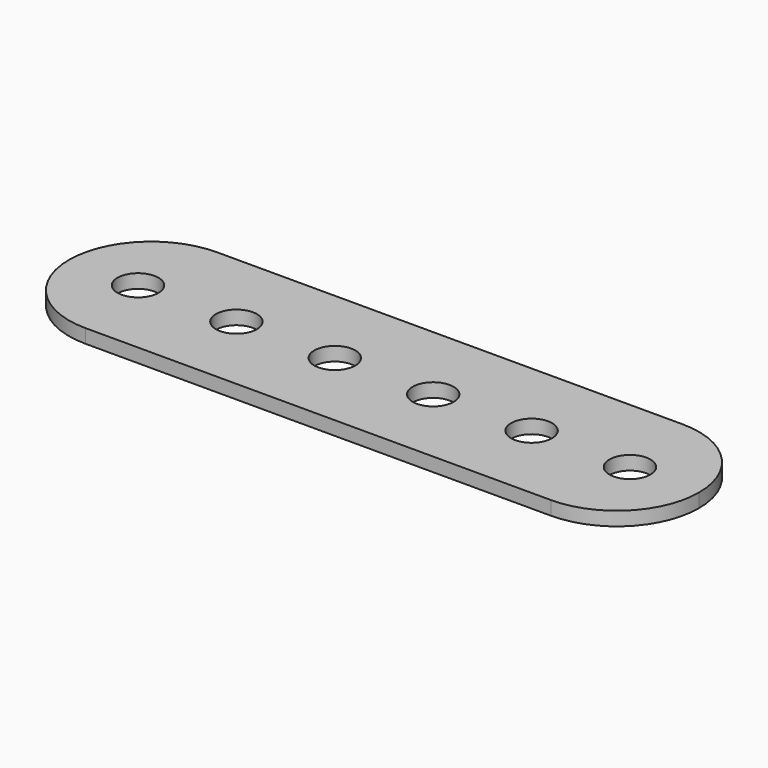
from build123d import *

# Parameters (mm, degrees)
F0_R     = 2.3749
F1_DEPTH = 1.6002


with BuildPart() as f1:
    # F0 (on Top) → F1 (new body)
    with BuildSketch(Plane.XY):
        with BuildLine():
            Line((26.9875, 9.525), (0, 9.525))
            Line((0, 9.525), (-26.9875, 9.525))
            ThreePointArc((-26.9875, 9.525), (-33.722692, 6.735192), (-36.5125, 0))
            ThreePointArc((-36.5125, 0), (-33.722692, -6.735192), (-26.9875, -9.525))
            Line((-26.9875, -9.525), (0, -9.525))
            Line((0, -9.525), (26.9875, -9.525))
            ThreePointArc((26.9875, -9.525), (33.722692, -6.735192), (36.5125, 0))
            ThreePointArc((36.5125, 0), (33.722692, 6.735192), (26.9875, 9.525))
        make_face()
        with Locations((-28.5115, 0)):
            Circle(F0_R, mode=Mode.SUBTRACT)
        with Locations((-17.1069, 0)):
            Circle(F0_R, mode=Mode.SUBTRACT)
        with Locations((-5.7023, 0)):
            Circle(F0_R, mode=Mode.SUBTRACT)
        with Locations((5.7023, 0)):
            Circle(F0_R, mode=Mode.SUBTRACT)
        with Locations((17.1069, 0)):
            Circle(F0_R, mode=Mode.SUBTRACT)
        with Locations((28.5115, 0)):
            Circle(F0_R, mode=Mode.SUBTRACT)
    extrude(amount=F1_DEPTH)


solid = f1.part
